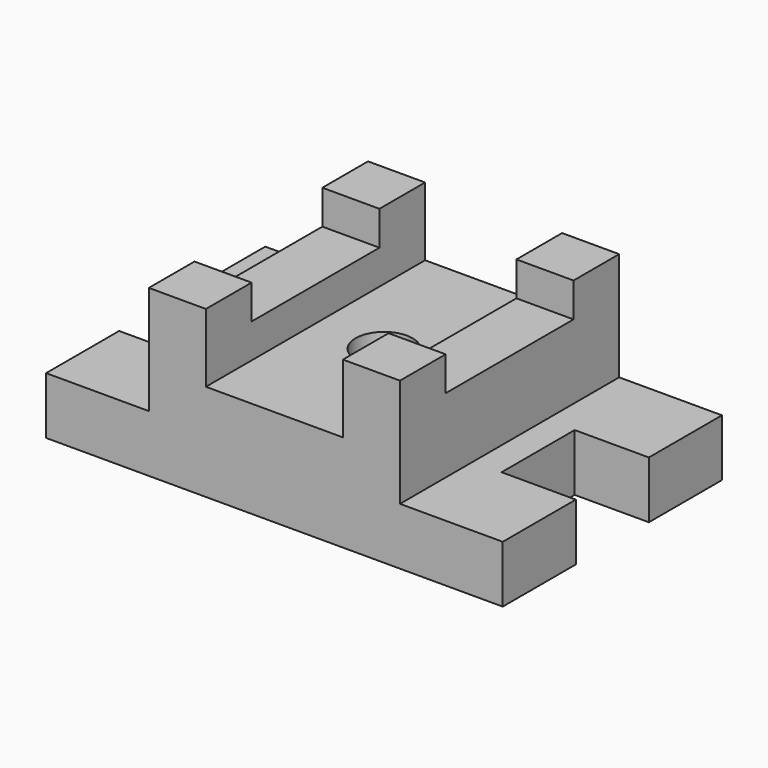
from build123d import *

# Parameters (mm, degrees)
F0_W      = 254
F0_H      = 152.4
F1_DEPTH  = 92.075
F2_W      = 57.15
F2_H      = 60.325
F3_DEPTH  = 152.401
F4_W      = 50.8
F4_H      = 31.75
F5_DEPTH  = 41.275
F6_W      = 50.8
F6_H      = 31.75
F7_DEPTH  = 41.275
F8_W      = 76.2
F8_H      = 38.1
F9_DEPTH  = 152.401
F10_W     = 88.9
F10_H     = 19.05
F11_DEPTH = 196.851
F12_R     = 15.875
F13_DEPTH = 53.976


with BuildPart() as f1:
    # F0 (on Top) → F1 (new body)
    with BuildSketch(Plane.XY):
        with Locations((37.577479, -0.062022)):
            Rectangle(F0_W, F0_H)
    extrude(amount=F1_DEPTH)

    # F2 (on face) → F3 (cut, through all)
    with BuildSketch(Plane.XZ.offset(76.262022)):
        with Locations((-60.847521, 61.9125)):
            Rectangle(F2_W, F2_H)
        with Locations((136.002479, 61.9125)):
            Rectangle(F2_W, F2_H)
    extrude(amount=-F3_DEPTH, mode=Mode.SUBTRACT)

    # F4 (on face) → F5 (cut)
    with BuildSketch(Plane.YZ.offset(164.577479)):
        with Locations((-0.062022, 15.875)):
            Rectangle(F4_W, F4_H)
    extrude(amount=-F5_DEPTH, mode=Mode.SUBTRACT)

    # F6 (on face) → F7 (cut)
    with BuildSketch(Plane(origin=(-89.422521, 0, 0), x_dir=(0, -1, 0), z_dir=(-1, 0, 0))):
        with Locations((0.062022, 15.875)):
            Rectangle(F6_W, F6_H)
    extrude(amount=-F7_DEPTH, mode=Mode.SUBTRACT)

    # F8 (on face) → F9 (cut, through all)
    with BuildSketch(Plane.XZ.offset(76.262022)):
        with Locations((37.577479, 73.025)):
            Rectangle(F8_W, F8_H)
    extrude(amount=-F9_DEPTH, mode=Mode.SUBTRACT)

    # F10 (on face) → F11 (cut, through all)
    with BuildSketch(Plane.YZ.offset(107.427479)):
        with Locations((-0.062022, 82.55)):
            Rectangle(F10_W, F10_H)
    extrude(amount=-F11_DEPTH, mode=Mode.SUBTRACT)

    # F12 (on face) → F13 (cut, through all)
    with BuildSketch(Plane.XY.offset(53.975)):
        with Locations((37.577479, 0)):
            Circle(F12_R)
    extrude(amount=-F13_DEPTH, mode=Mode.SUBTRACT)


solid = f1.part
